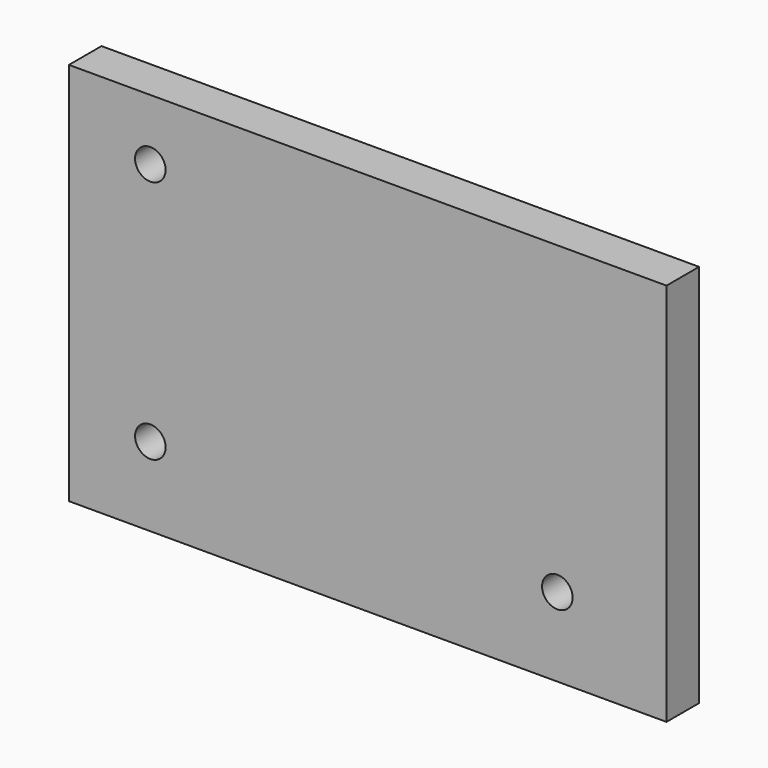
from build123d import *

# Parameters (mm, degrees)
F0_W     = 372.93318
F0_H     = 239.700406
F1_DEPTH = 25.4
F3_D     = 19.05


with BuildPart() as f1:
    # F0 (on Front) → F1 (new body)
    with BuildSketch(Plane.XZ):
        Rectangle(F0_W, F0_H)
    extrude(amount=F1_DEPTH)

    # F3 (through all)
    with Locations(Plane.XZ.offset(25.4)):
        with Locations((-135.66659, 81.750203), (-135.66659, -70.649797), (118.33341, -70.649797)):
            Hole(F3_D / 2)


solid = f1.part
